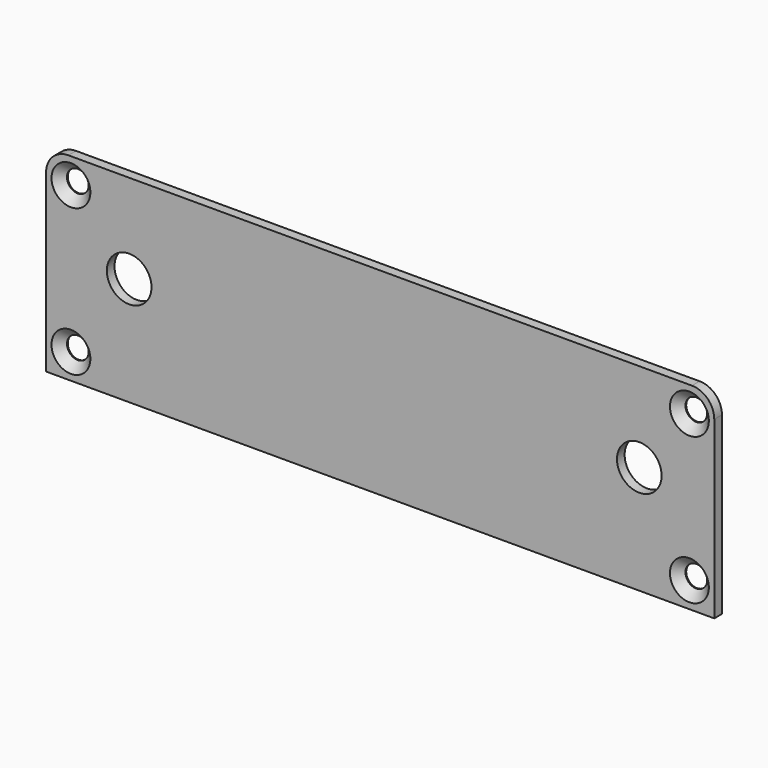
from build123d import *

# Parameters (mm, degrees)
SKETCH_W            = 104.8
SKETCH_H            = 31
PAD_DEPTH           = 1.5
HOLE_D              = 3.4
HOLE_DEPTH          = 25
HOLE_CSINK_D        = 6.1
HOLE_CSINK_ANGLE    = 90
FILLET_R            = 3.5
SKETCH002_R         = 3.5
POCKET_DEPTH        = 1.501
LINEARPATTERN_COUNT = 2
LINEARPATTERN_PITCH = 80.01


with BuildPart() as part:
    # Sketch → Pad (new body)
    with BuildSketch(Plane.XZ):
        Rectangle(SKETCH_W, SKETCH_H)
    extrude(amount=PAD_DEPTH)

    # Hole
    with Locations(Plane.XZ.offset(1.5)):
        with Locations((-48.5, 11.5), (-48.5, -11.5), (48.5, -11.5), (48.5, 11.5)):
            CounterSinkHole(HOLE_D / 2, HOLE_CSINK_D / 2, depth=HOLE_DEPTH, counter_sink_angle=HOLE_CSINK_ANGLE)

    # Fillet
    fillet_edges = [part.edges().sort_by_distance(p)[0] for p in [
        (-52.4, -0.75, 15.5),
        (52.4, -0.75, 15.5),
    ]]
    fillet(fillet_edges, radius=FILLET_R)

    # Sketch002 (on Face5 of Fillet) → Pocket (cut, through all)
    with BuildSketch(Plane.XZ.offset(1.5)):
        with Locations((-39.37, 1.52)):
            Circle(SKETCH002_R)
    pocket = extrude(amount=-POCKET_DEPTH, mode=Mode.SUBTRACT)

    # LinearPattern: Pocket ×2
    with Locations(*[(i * LINEARPATTERN_PITCH, 0, 0) for i in range(1, LINEARPATTERN_COUNT)]):
        add(pocket, mode=Mode.SUBTRACT)


solid = part.part
